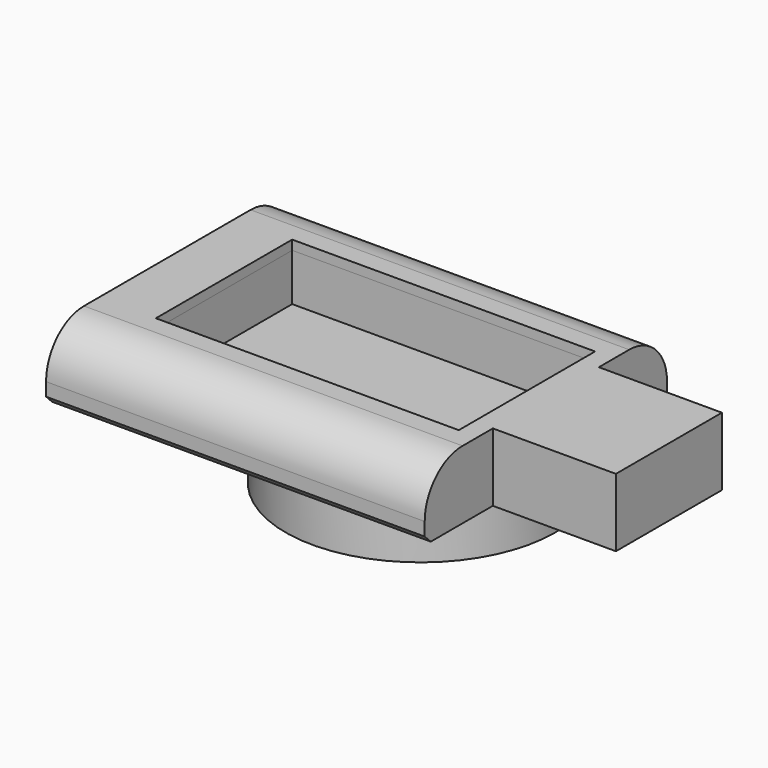
from build123d import *

# Parameters (mm, degrees)
F0_W      = 6.5
F0_H      = 7
F1_DEPTH  = 3.6
F2_R      = 7.125
F3_DEPTH  = 2.5
F4_W      = 16
F4_H      = 9
F5_DEPTH  = 3
F6_R      = 2.5
F8_SIZE   = 0.4
F9_T      = -0.5
F10_R     = 0.3
F11_DEPTH = 0.5
F12_DEPTH = 2.5
F13_DEPTH = 6.5
F15_DEPTH = 19
F16_W     = 16
F16_H     = 9
F17_DEPTH = 3


with BuildPart() as f1:
    # F0 (on Top) → F1 (new body)
    with BuildSketch(Plane.XY):
        Polygon((20, 8), (0, 8), (0, -8), (20, -8), (20, -3.5), (20, 3.5), align=None)
        with Locations((23.25, 0)):
            Rectangle(F0_W, F0_H)
    extrude(amount=F1_DEPTH)

    # F2 (on face) → F3 (join)
    with BuildSketch(Plane(origin=(0, 0, 0), x_dir=(1, 0, 0), z_dir=(0, 0, -1))):
        with Locations((13.375, 0)):
            Circle(F2_R)
    extrude(amount=F3_DEPTH)

    # F4 (on face) → F5 (cut)
    with BuildSketch(Plane.XY.offset(3.6)):
        with Locations((11, 0)):
            Rectangle(F4_W, F4_H)
    extrude(amount=-F5_DEPTH, mode=Mode.SUBTRACT)

    # F6
    f6_edges = [f1.edges().sort_by_distance(p)[0] for p in [
        (10, 8, 3.6),
        (10, -8, 3.6),
    ]]
    fillet(f6_edges, radius=F6_R)

    # F8
    f8_edges = [f1.edges().sort_by_distance(p)[0] for p in [
        (10, 8, 0),
        (10, -8, 0),
    ]]
    chamfer(f8_edges, length=F8_SIZE)

    # F9
    f9_openings = [f1.faces().sort_by_distance(p)[0] for p in [
        (11, 0, 0.6),
        (11, 4.5, 2.1),
        (19, 0, 2.1),
        (3, 0, 2.1),
        (11, -4.5, 2.1),
    ]]
    offset(amount=F9_T, openings=f9_openings, kind=Kind.INTERSECTION)

    # F10 (on face) → F11 (cut, through all)
    with BuildSketch(Plane(origin=(0, 0, 0), x_dir=(0, -1, 0), z_dir=(-1, 0, 0))):
        with Locations((-5.3723076627, 1.6593972807)):
            Circle(F10_R)
        with Locations((-3.3723076627, 1.6593972807)):
            Circle(F10_R)
    extrude(amount=-F11_DEPTH, mode=Mode.SUBTRACT)


with BuildPart() as f12:
    # F12 (new, through all): a face of the model
    f12_faces = [f1.part.faces().sort_by_distance(p)[0] for p in [
        (13.375, 0, -2),
    ]]
    extrude(f12_faces, amount=F12_DEPTH)



with BuildPart() as f13:
    # F13 (new, through all): a face of the model
    f13_faces = [f1.part.faces().sort_by_distance(p)[0] for p in [
        (26, 0, 1.8),
    ]]
    extrude(f13_faces, amount=F13_DEPTH)


with BuildPart() as f12_1:
    add(f12.part)

    add(f13.part)  # F15 merges F13
    # F14 (on face) → F15 (join, through all)
    with BuildSketch(Plane.YZ.offset(0.5)):
        with BuildLine():
            Line((7.3928932188, 0.5), (7.5, 0.6071067812))
            Line((7.5, 0.6071067812), (7.5, 1.1))
            ThreePointArc((7.5, 1.1), (6.9142135624, 2.5142135624), (5.5, 3.1))
            Line((5.5, 3.1), (-5.5, 3.1))
            ThreePointArc((-5.5, 3.1), (-6.9142135624, 2.5142135624), (-7.5, 1.1))
            Line((-7.5, 1.1), (-7.5, 0.6071067812))
            Line((-7.5, 0.6071067812), (-7.3928932188, 0.5))
            Line((-7.3928932188, 0.5), (7.3928932188, 0.5))
        make_face()
    extrude(amount=F15_DEPTH)

    # F16 (on face) → F17 (cut)
    with BuildSketch(Plane.XY.offset(3.6)):
        with Locations((11, 0)):
            Rectangle(F16_W, F16_H)
    extrude(amount=-F17_DEPTH, mode=Mode.SUBTRACT)


solid = Compound([f1.part, f12_1.part])
